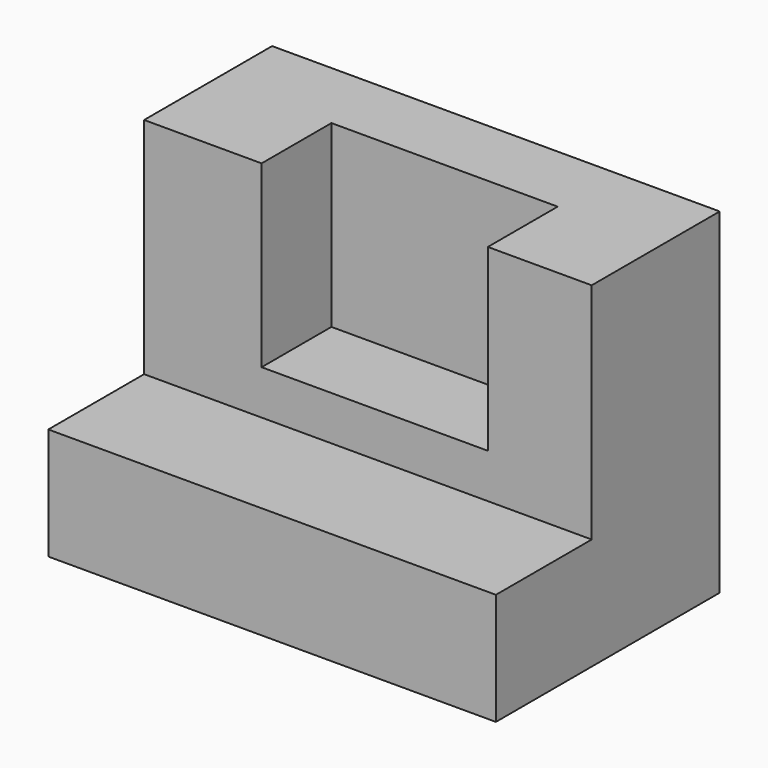
from build123d import *

# Parameters (mm, degrees)
F0_W     = 101.6
F0_H     = 25.4
F1_DEPTH = 63.5
F2_W     = 101.6
F2_H     = 36.316596
F3_DEPTH = 50.8
F4_W     = 51.353935
F4_H     = 40.734572
F5_DEPTH = 19.812


with BuildPart() as f1:
    # F0 (on Front) → F1 (new body)
    with BuildSketch(Plane.XZ):
        with Locations((24.13, -51.421492)):
            Rectangle(F0_W, F0_H)
    extrude(amount=F1_DEPTH)

    # F2 (on face) → F3 (join)
    with BuildSketch(Plane.XY.offset(-38.721492)):
        with Locations((24.13, -18.158298)):
            Rectangle(F2_W, F2_H)
    extrude(amount=F3_DEPTH)

    # F4 (on face) → F5 (cut)
    with BuildSketch(Plane.XZ.offset(36.316596)):
        with Locations((25.676967, -8.288778)):
            Rectangle(F4_W, F4_H)
    extrude(amount=-F5_DEPTH, mode=Mode.SUBTRACT)


solid = f1.part
